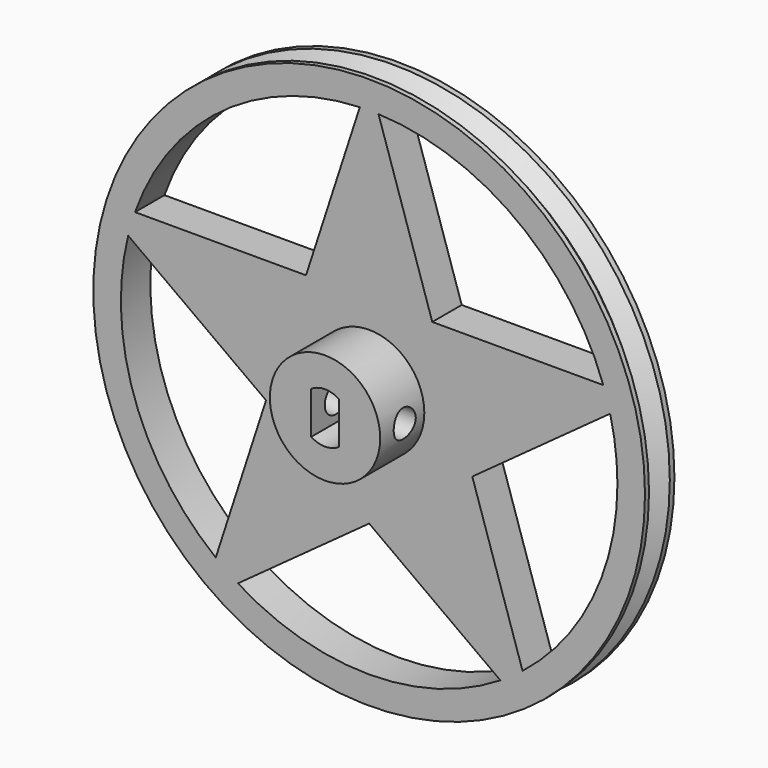
from build123d import *

# Parameters (mm, degrees)
F0_R          = 6
F1_DEPTH      = 10
F0_R_2        = 30
F2_DEPTH      = 4
F3_R          = 1.5
F4_DEPTH      = 25.3
F4_DEPTH_BACK = 25
F6_DEPTH      = 9.4
F11_DEPTH     = 25


with BuildPart() as f1:
    # F0 (on Front) → F1 (new body)
    with BuildSketch(Plane.XZ):
        Circle(F0_R)
    extrude(amount=F1_DEPTH)

    # F0 (on Front) → F2 (join)
    with BuildSketch(Plane.XZ):
        Circle(F0_R_2)
        Circle(F0_R, mode=Mode.SUBTRACT)
    extrude(amount=F2_DEPTH)

    # F3 (on Right) → F4 (cut, two sides)
    with BuildSketch(Plane.YZ) as f4_sk:
        with Locations((-6.6611841321, 0)):
            Circle(F3_R)
    extrude(amount=-F4_DEPTH, mode=Mode.SUBTRACT)
    extrude(f4_sk.sketch, amount=F4_DEPTH_BACK, mode=Mode.SUBTRACT)

    # F5 (on face) → F6 (cut)
    with BuildSketch(Plane.XZ.offset(10)):
        with BuildLine():
            ThreePointArc((-1.5, -2.3), (0, -2.7459060435), (1.5, -2.3))
            Line((1.5, -2.3), (1.5, 2.3))
            ThreePointArc((1.5, 2.3), (0, 2.7540939565), (-1.5, 2.3))
            Line((-1.5, 2.3), (-1.5, -2.3))
        make_face()
    extrude(amount=-F6_DEPTH, mode=Mode.SUBTRACT)

    # F7 (on Right) → F8 (revolve, cut)
    with BuildSketch(Plane.YZ):
        Polygon((-3.4562557703, -30), (-0.6278286455, -30), (-2.0420422079, -28.5857864376), align=None)
    revolve(axis=Axis((0, -4.137200769, 0), (0, 1, 0)), mode=Mode.SUBTRACT)

    # F10 (on face) → F11 (cut)
    with BuildSketch(Plane.XZ.offset(4)):
        with BuildLine():
            Line((0, -12.5489194834), (-14.2731177399, -22.9189465287))
            ThreePointArc((-14.2731177399, -22.9189465287), (0, -27), (14.2731177399, -22.9189465287))
            Line((14.2731177399, -22.9189465287), (0, -12.5489194834))
        make_face()
        with BuildLine():
            ThreePointArc((-26.207849387, 6.4921976638), (-25.5345752261, -8.7741363121), (-16.6820319121, -21.2299272558))
            Line((-16.6820319121, -21.2299272558), (-11.2141093823, -4.4013921035))
            Line((-11.2141093823, -4.4013921035), (-26.207849387, 6.4921976638))
        make_face()
        with BuildLine():
            ThreePointArc((-1.0174091694, 26.9808242754), (-16.0079494962, 21.7427126396), (-25.4614935227, 8.9840050977))
            Line((-25.4614935227, 8.9840050977), (-6.8649301898, 8.9840050977))
            Line((-6.8649301898, 8.9840050977), (-1.0174091694, 26.9808242754))
        make_face()
        with BuildLine():
            ThreePointArc((25.4614935227, 8.9840050977), (16.0079494962, 21.7427126396), (1.0174091694, 26.9808242754))
            Line((1.0174091694, 26.9808242754), (6.8649301898, 8.9840050977))
            Line((6.8649301898, 8.9840050977), (25.4614935227, 8.9840050977))
        make_face()
        with BuildLine():
            Line((11.2141093823, -4.4013921035), (16.6820319121, -21.2299272558))
            ThreePointArc((16.6820319121, -21.2299272558), (24.2838924148, -11.8022272977), (27, 0))
            ThreePointArc((27, 0), (26.8012306942, 3.270173279), (26.207849387, 6.4921976638))
            Line((26.207849387, 6.4921976638), (11.2141093823, -4.4013921035))
        make_face()
    extrude(amount=-F11_DEPTH, mode=Mode.SUBTRACT)


solid = f1.part
